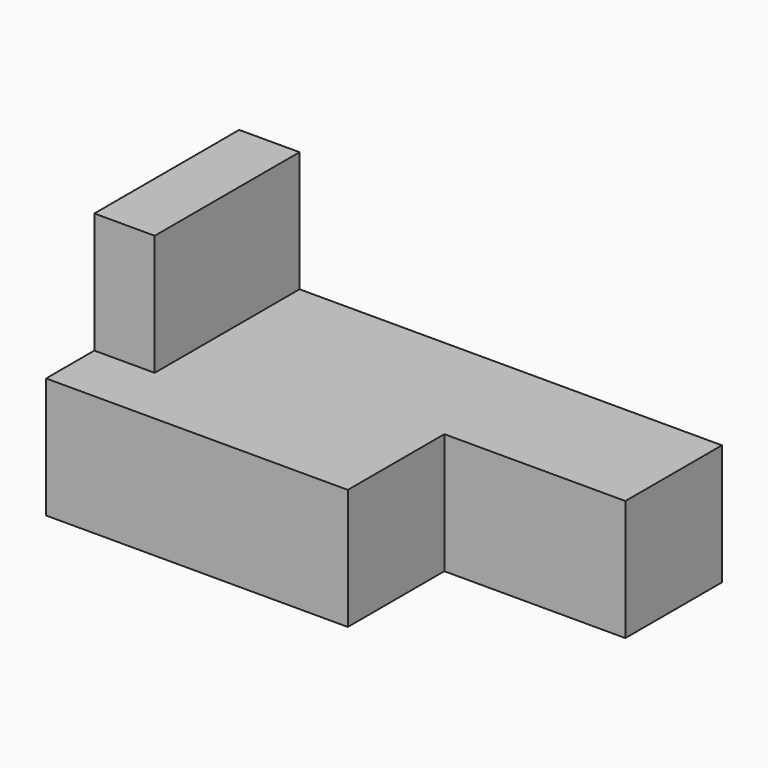
from build123d import *

# Parameters (mm, degrees)
F1_DEPTH = 25.4
F2_W     = 6.35
F2_H     = 12.7
F3_DEPTH = 6.351
F4_W     = 19.05
F4_H     = 12.7
F5_DEPTH = 12.701


with BuildPart() as f1:
    # F0 (on Front) → F1 (new body)
    with BuildSketch(Plane.XZ):
        Polygon((0, 25.4), (0, 0), (50.8, 0), (50.8, 12.7), (6.35, 12.7), (6.35, 25.4), align=None)
    extrude(amount=F1_DEPTH)

    # F2 (on face) → F3 (cut, through all)
    with BuildSketch(Plane.YZ.offset(6.35)):
        with Locations((-22.225, 19.05)):
            Rectangle(F2_W, F2_H)
    extrude(amount=-F3_DEPTH, mode=Mode.SUBTRACT)

    # F4 (on face) → F5 (cut, through all)
    with BuildSketch(Plane.XY.offset(12.7)):
        with Locations((41.275, -19.05)):
            Rectangle(F4_W, F4_H)
    extrude(amount=-F5_DEPTH, mode=Mode.SUBTRACT)


solid = f1.part
